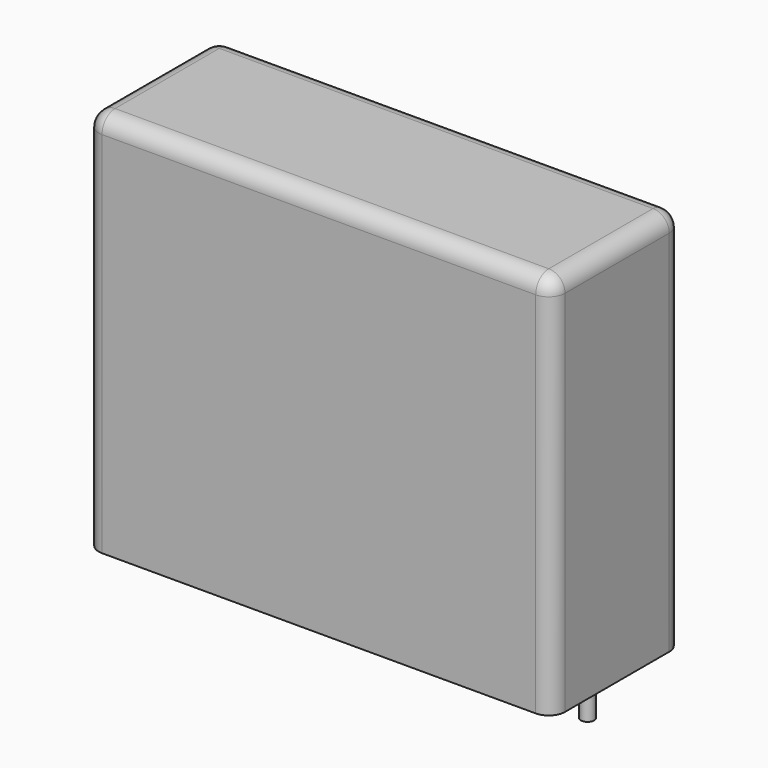
from build123d import *

# Parameters (mm, degrees)
SKETCH_W     = 31.5
SKETCH_H     = 11
PAD_DEPTH    = 26
FILLET_R     = 1.1
SKETCH001_R  = 0.45
PAD001_DEPTH = 3.2


with BuildPart() as fillet_body:
    # Sketch → Pad (new body)
    with BuildSketch(Plane.XY.offset(0.1)):
        with Locations((13.75, 0)):
            Rectangle(SKETCH_W, SKETCH_H)
    extrude(amount=PAD_DEPTH)

    # Fillet
    fillet_edges = [fillet_body.edges().sort_by_distance(p)[0] for p in [
        (-2, 0, 26.1),
        (-2, -5.5, 13.1),
        (13.75, -5.5, 26.1),
        (29.5, -5.5, 13.1),
        (29.5, 0, 26.1),
        (29.5, 5.5, 13.1),
        (13.75, 5.5, 26.1),
        (-2, 5.5, 13.1),
    ]]
    fillet(fillet_edges, radius=FILLET_R)


with BuildPart() as pad001:
    # Sketch001 → Pad001 (new body)
    with BuildSketch(Plane.XY.offset(0.5)):
        Circle(SKETCH001_R)
        with Locations((27.5, 0)):
            Circle(SKETCH001_R)
    extrude(amount=-PAD001_DEPTH)


solid = Compound([fillet_body.part, pad001.part])
